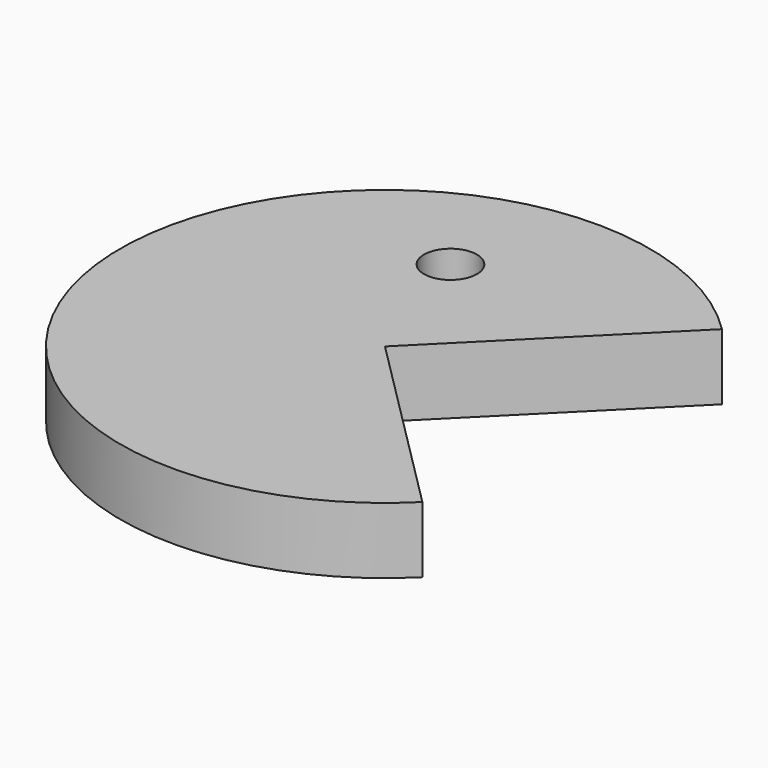
from build123d import *

# Parameters (mm, degrees)
CYLINDER001_R       = 2
CYLINDER001_DEPTH   = 10
CYLINDER_W          = 20
CYLINDER_H          = 5
CYLINDER_ANGLE      = 270
CUT_PLACEMENT_ANGLE = 45


with BuildPart() as cilindro001:
    # Cylinder001 → Cylinder001 (new body)
    with BuildSketch(Plane(origin=(5, 10, 0), x_dir=(1, 0, 0), z_dir=(0, 0, 1))):
        Circle(CYLINDER001_R)
    extrude(amount=CYLINDER001_DEPTH)


with BuildPart() as cut:
    # Cylinder → Cylinder (revolve)
    with BuildSketch(Plane.XZ):
        with Locations((10, 2.5)):
            Rectangle(CYLINDER_W, CYLINDER_H)
    revolve(axis=Axis((0, 0, 0), (0, 0, 1)), revolution_arc=CYLINDER_ANGLE)

    # Cut: cut Cilindro001
    add(cilindro001.part, mode=Mode.SUBTRACT)


with BuildPart() as cut_1:
    # Cut placement: moved
    add(cut.part.rotate(Axis((0, 0, 0), (0, 0, 1)), CUT_PLACEMENT_ANGLE))


solid = cut_1.part
